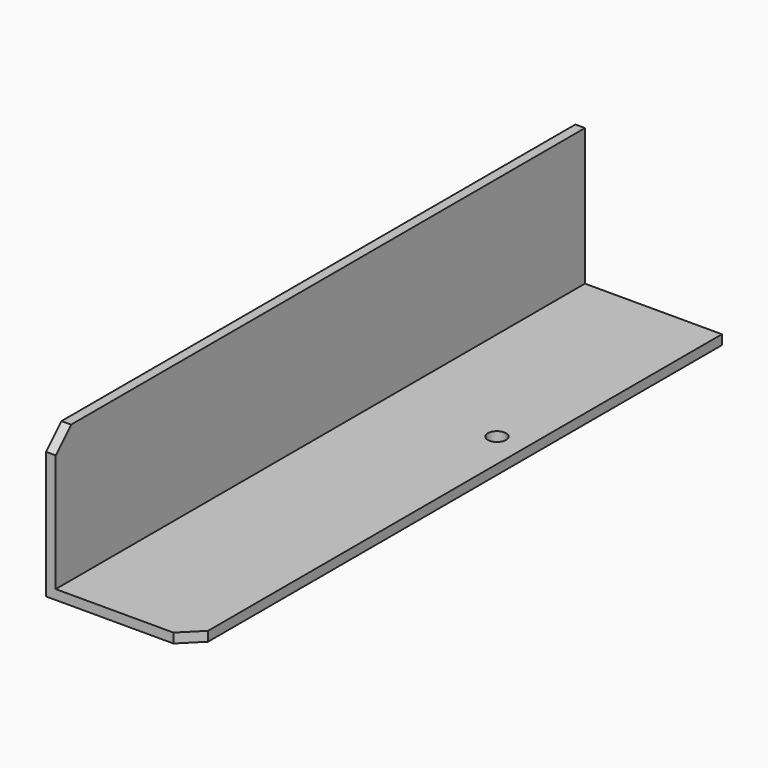
from build123d import *

# Parameters (mm, degrees)
F1_DEPTH = 343.9
F2_SIZE  = 10
F4_D     = 9.525


with BuildPart() as f1:
    # F0 (on Front) → F1 (new body)
    with BuildSketch(Plane.XZ):
        Polygon((0, 76.2), (0, 0), (76.2, 0), (76.2, 5), (5, 5), (5, 76.2), align=None)
    extrude(amount=F1_DEPTH)

    # F2
    f2_edges = [f1.edges().sort_by_distance(p)[0] for p in [
        (76.2, -343.9, 2.5),
        (2.5, -343.9, 76.2),
    ]]
    chamfer(f2_edges, length=F2_SIZE)

    # F4 (through all)
    with Locations(Plane.XY.offset(5)):
        with Locations((61.11, -127.312)):
            Hole(F4_D / 2)


solid = f1.part
